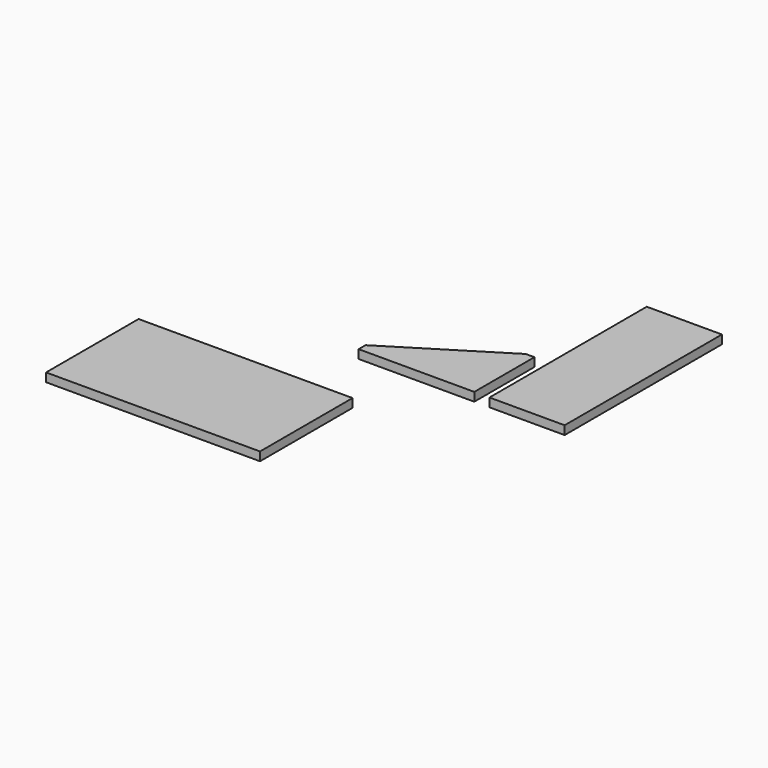
from build123d import *

# Parameters (mm, degrees)
F0_W     = 165.1
F0_H     = 431.8
F1_DEPTH = 19.05
F2_W     = 254
F2_H     = 165.1
F3_DEPTH = 19.05
F5_DEPTH = 19.051
F6_W     = 469.9
F6_H     = 254
F7_DEPTH = 19.05


with BuildPart() as f1:
    # F0 (on Top) → F1 (new body)
    with BuildSketch(Plane.XY):
        with Locations((82.55, 215.9)):
            Rectangle(F0_W, F0_H)
    extrude(amount=F1_DEPTH)


with BuildPart() as f3:
    # F2 (on Top) → F3 (new body)
    with BuildSketch(Plane.XY):
        with Locations((-160.310585, 82.55)):
            Rectangle(F2_W, F2_H)
    extrude(amount=F3_DEPTH)

    # F4 (on face) → F5 (cut, through all)
    with BuildSketch(Plane.XY.offset(19.05)):
        Polygon((-287.310585, 19.05), (-52.360585, 165.1), (-287.310585, 165.1), align=None)
    extrude(amount=-F5_DEPTH, mode=Mode.SUBTRACT)


with BuildPart() as f7:
    # F6 (on Top) → F7 (new body)
    with BuildSketch(Plane.XY):
        with Locations((-417.04063, -275.301196)):
            Rectangle(F6_W, F6_H)
    extrude(amount=F7_DEPTH)


solid = Compound([f1.part, f3.part, f7.part])
